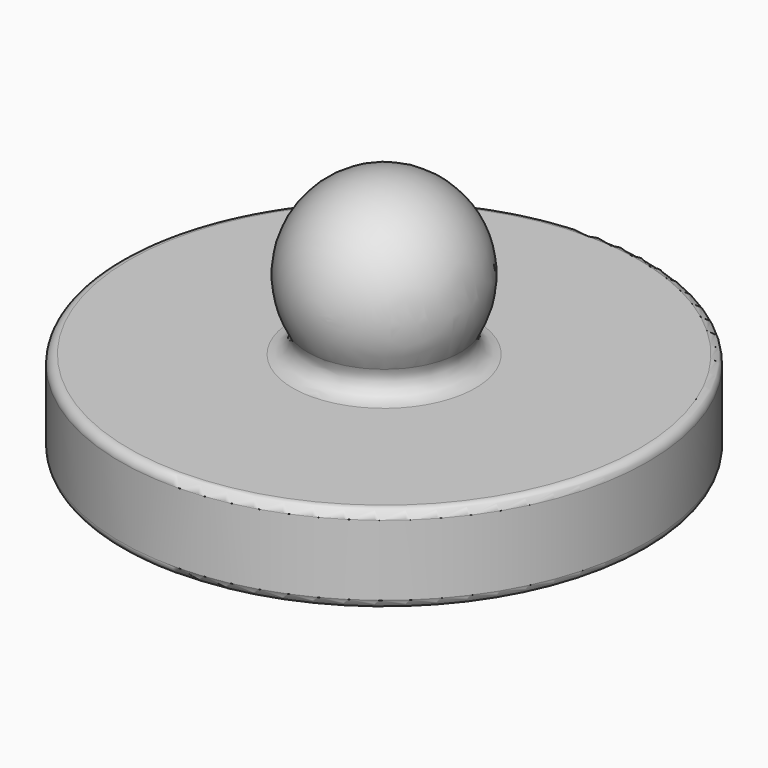
from build123d import *

# Parameters (mm, degrees)
F3_R     = 13
F4_DEPTH = 2
F3_R_2   = 15
F5_DEPTH = 5
F6_R     = 1
F7_R     = 0.5


with BuildPart() as f1:
    # F0 (on Top) → F1 (revolve)
    with BuildSketch(Plane.XY):
        with BuildLine():
            Line((0, 5), (0, -5))
            ThreePointArc((0, -5), (5, 0), (0, 5))
        make_face()
    revolve(axis=Axis((0, 0, 0), (0, -1, 0)))

    # F3 (on offset) → F4 (join)
    with BuildSketch(Plane.XY.offset(-4)):
        Circle(F3_R)
    extrude(amount=-F4_DEPTH)

    # F3 (on offset) → F5 (join)
    with BuildSketch(Plane.XY.offset(-4)):
        Circle(F3_R_2)
        Circle(F3_R, mode=Mode.SUBTRACT)
    extrude(amount=-F5_DEPTH)

    # F6
    f6_edges = [f1.edges().sort_by_distance(p)[0] for p in [
        (0, 3, -4),
    ]]
    fillet(f6_edges, radius=F6_R)

    # F7
    f7_edges = [f1.edges().sort_by_distance(p)[0] for p in [
        (-15, 0, -4),
        (-13, 0, -9),
        (-15, 0, -9),
        (-13, 0, -6),
    ]]
    fillet(f7_edges, radius=F7_R)


solid = f1.part
